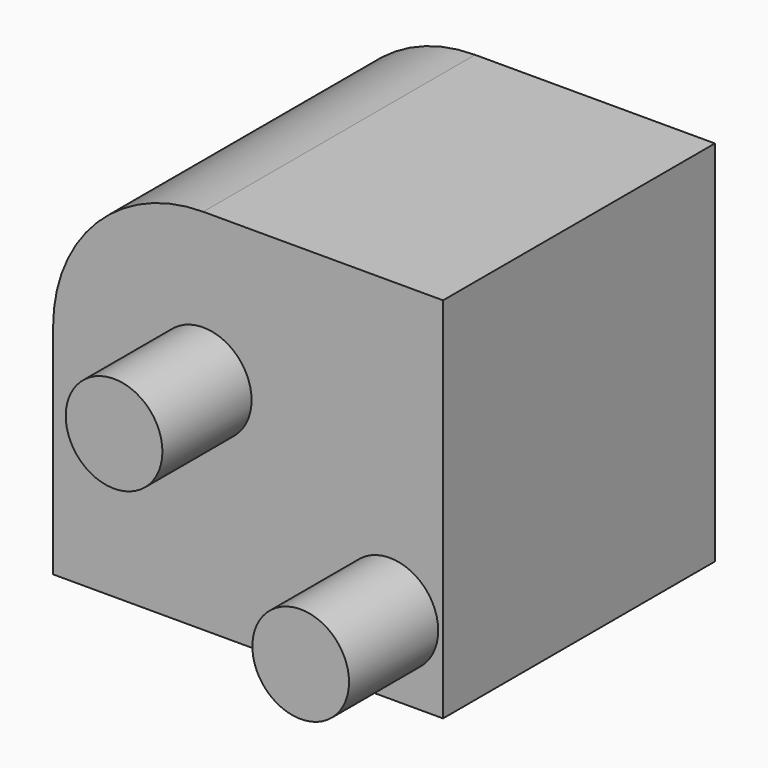
from build123d import *

# Parameters (mm, degrees)
F0_W     = 88.869118
F0_H     = 83.88424
F1_DEPTH = 77.4465
F2_R     = 34.214066
F3_R     = 11.016675
F4_DEPTH = 25.4


with BuildPart() as f1:
    # F0 (on Front) → F1 (new body)
    with BuildSketch(Plane.XZ):
        Rectangle(F0_W, F0_H)
    extrude(amount=F1_DEPTH)

    # F2
    f2_edges = [f1.edges().sort_by_distance(p)[0] for p in [
        (-44.434559, -38.72325, 41.94212),
    ]]
    fillet(f2_edges, radius=F2_R)

    # F3 (on face) → F4 (join)
    with BuildSketch(Plane.XZ.offset(77.4465)):
        with Locations((-10.220493, 7.728054)):
            Circle(F3_R)
        with Locations((32.314323, -24.676727)):
            Circle(F3_R)
    extrude(amount=F4_DEPTH)


solid = f1.part
